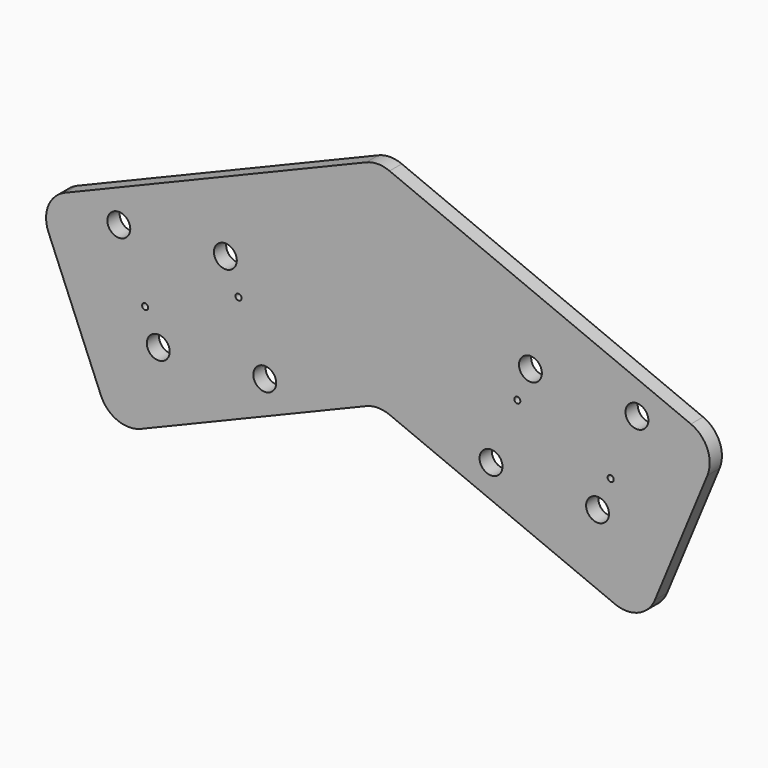
from build123d import *

# Parameters (mm, degrees)
F0_R     = 4.7625
F0_R_2   = 1.27
F1_DEPTH = 3.175
F2_R     = 12.7


with BuildPart() as f1:
    # F0 (on Front) → F1 (new body, symmetric)
    with BuildSketch(Plane.XZ):
        with BuildLine():
            ThreePointArc((-58.739439, 33.837052), (-67.461813, 36.482955), (-61.679409, 29.437076))
            ThreePointArc((-61.679409, 29.437076), (-59.542065, 31.191149), (-58.739439, 33.837052))
        make_face()
        Polygon((-42.239091, -17.496004), (0, 0), (0, 89.351476), (-142.04342, 30.515165), (-110.452903, -45.75109), align=None)
        with Locations((-91.447397, -8.667692)):
            Circle(F0_R, mode=Mode.SUBTRACT)
        with Locations((-96.914986, 4.532236)):
            Circle(F0_R_2, mode=Mode.SUBTRACT)
        with BuildLine():
            ThreePointArc((-42.33667, -5.762734), (-43.139296, -8.408637), (-45.276641, -10.16271))
            ThreePointArc((-45.276641, -10.16271), (-51.499147, -7.585264), (-48.9217, -1.362758))
            ThreePointArc((-48.9217, -1.362758), (-44.453267, -1.80286), (-42.33667, -5.762734))
        make_face(mode=Mode.SUBTRACT)
        with BuildLine():
            ThreePointArc((-56.764349, 20.637123), (-56.978383, 19.931549), (-57.548342, 19.463796))
            ThreePointArc((-57.548342, 19.463796), (-59.207676, 20.151115), (-58.520357, 21.81045))
            ThreePointArc((-58.520357, 21.81045), (-57.328775, 21.69309), (-56.764349, 20.637123))
        make_face(mode=Mode.SUBTRACT)
        with Locations((-107.850165, 30.932094)):
            Circle(F0_R, mode=Mode.SUBTRACT)
        with BuildLine():
            ThreePointArc((-58.739439, 33.837052), (-59.542065, 31.191149), (-61.679409, 29.437076))
            ThreePointArc((-61.679409, 29.437076), (-67.461813, 36.482955), (-58.739439, 33.837052))
        make_face(mode=Mode.SUBTRACT)
        Polygon((0, 89.351476), (0, 0), (110.452903, -45.75109), (142.04342, 30.515165), align=None)
        with Locations((47.09917, -5.762734)):
            Circle(F0_R, mode=Mode.SUBTRACT)
        with Locations((58.034349, 20.637123)):
            Circle(F0_R_2, mode=Mode.SUBTRACT)
        with Locations((91.447397, -8.667692)):
            Circle(F0_R, mode=Mode.SUBTRACT)
        with Locations((96.914986, 4.532236)):
            Circle(F0_R_2, mode=Mode.SUBTRACT)
        with Locations((63.501939, 33.837052)):
            Circle(F0_R, mode=Mode.SUBTRACT)
        with Locations((107.850165, 30.932094)):
            Circle(F0_R, mode=Mode.SUBTRACT)
    extrude(amount=F1_DEPTH, both=True)

    # F2
    f2_edges = [f1.edges().sort_by_distance(p)[0] for p in [
        (-142.04342, 0, 30.515165),
        (0, 0, 89.351476),
        (0, 0, 0),
        (110.452903, 0, -45.75109),
        (142.04342, 0, 30.515165),
        (-110.452903, 0, -45.75109),
    ]]
    fillet(f2_edges, radius=F2_R)


solid = f1.part
